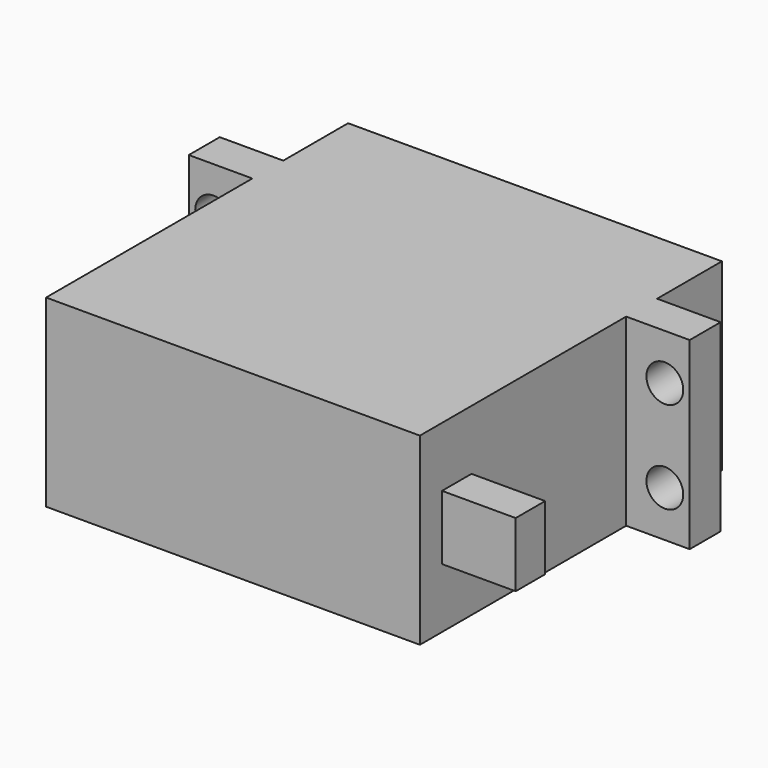
from build123d import *

# Parameters (mm, degrees)
PAD_DEPTH    = 20
SKETCH001_R  = 6
PAD001_DEPTH = 1.5
SKETCH002_R  = 3
PAD002_DEPTH = 7
SKETCH003_R  = 2
POCKET_DEPTH = 32.201
SKETCH004_W  = 4
SKETCH004_H  = 7
PAD003_DEPTH = 8


with BuildPart() as part:
    # Sketch → Pad (new body)
    with BuildSketch(Plane.XY):
        Polygon((0, 0), (40.6, 0), (40.6, 28), (47.5, 28), (47.5, 32.2), (40.6, 32.2), (40.6, 41), (0, 41), (0, 32.2), (-6.9, 32.2), (-6.9, 28), (0, 28), align=None)
    extrude(amount=PAD_DEPTH)

    # Sketch001 (on Face8 of Pad) → Pad001 (join)
    with BuildSketch(Plane(origin=(0, 41, 0), x_dir=(-1, 0, 0), z_dir=(0, 1, 0))):
        with Locations((-9, 10)):
            Circle(SKETCH001_R)
    extrude(amount=PAD001_DEPTH)

    # Sketch002 (on Face16 of Pad001) → Pad002 (join)
    with BuildSketch(Plane(origin=(0, 42.5, 0), x_dir=(-1, 0, 0), z_dir=(0, 1, 0))):
        with Locations((-9, 10)):
            Circle(SKETCH002_R)
    extrude(amount=PAD002_DEPTH)

    # Sketch003 (on Face10 of Pad002) → Pocket (cut, through all)
    with BuildSketch(Plane(origin=(0, 32.2, 0), x_dir=(-1, 0, 0), z_dir=(0, 1, 0))):
        with Locations((4.2, 15)):
            Circle(SKETCH003_R)
        with Locations((4.2, 5)):
            Circle(SKETCH003_R)
        with Locations((-44.8, 5)):
            Circle(SKETCH003_R)
        with Locations((-44.8, 15)):
            Circle(SKETCH003_R)
    extrude(amount=-POCKET_DEPTH, mode=Mode.SUBTRACT)

    # Sketch004 (on Face9 of Pocket) → Pad003 (join)
    with BuildSketch(Plane.YZ.offset(40.6)):
        with Locations((5, 10)):
            Rectangle(SKETCH004_W, SKETCH004_H)
    extrude(amount=PAD003_DEPTH)


solid = part.part
